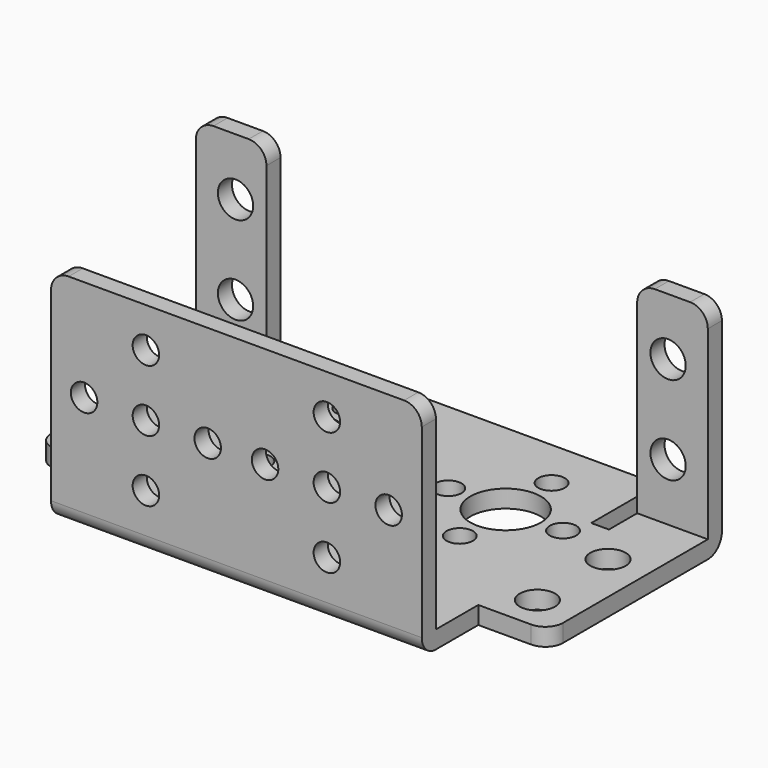
from build123d import *

# Parameters (mm, degrees)
PAD_DEPTH       = 2
SKETCH001_W     = 8
SKETCH001_H     = 2
SKETCH001_W_2   = 42
PAD001_DEPTH    = 23
SKETCH002_R     = 1.5
SKETCH002_R_2   = 4
SKETCH002_R_3   = 2
POCKET_DEPTH    = 5
SKETCH003_R     = 2
SKETCH003_R_2   = 1.5
POCKET001_DEPTH = 32.501
FILLET_R        = 2
FILLET001_R     = 1.99


with BuildPart() as part:
    # Sketch → Pad (new body)
    with BuildSketch(Plane.XY):
        with BuildLine():
            Line((0, -18), (21, -18))
            Line((21, -18), (21, -10))
            Line((21, -10), (27, -10))
            ThreePointArc((27, -10), (28.414214, -9.414214), (29, -8))
            Line((29, -8), (29, 14.5))
            Line((29, 14.5), (21, 14.5))
            Line((21, 14.5), (21, 8.5))
            Line((21, 8.5), (19, 8.5))
            Line((19, 8.5), (19, 16))
            ThreePointArc((19, 16), (18.414214, 17.414214), (17, 18))
            Line((17, 18), (0, 18))
            Line((0, 18), (0, -18))
        make_face()
    pad = extrude(amount=PAD_DEPTH)

    # Mirrored: Pad across Sketch V_Axis
    add(pad.mirror(Plane(origin=(0, 0, 0), x_dir=(0, 0, 1), z_dir=(1, 0, 0))))

    # Sketch001 (on Face5 of Mirrored) → Pad001 (join)
    with BuildSketch(Plane.XY.offset(2)):
        with Locations((25, 13.5)):
            Rectangle(SKETCH001_W, SKETCH001_H)
        with Locations((-25, 13.5)):
            Rectangle(SKETCH001_W, SKETCH001_H)
        with Locations((0, -17)):
            Rectangle(SKETCH001_W_2, SKETCH001_H)
    extrude(amount=PAD001_DEPTH)

    # Sketch002 (on Face10 of Pad001) → Pocket (cut)
    with BuildSketch(Plane.XY.offset(2)):
        with Locations((-11.46, 12.3)):
            Circle(SKETCH002_R)
        with Locations((-11.46, 5.8)):
            Circle(SKETCH002_R_2)
        with Locations((-4.96, 5.8)):
            Circle(SKETCH002_R)
        with Locations((-17.96, 5.8)):
            Circle(SKETCH002_R)
        with Locations((-11.46, -0.7)):
            Circle(SKETCH002_R)
        with Locations((11.46, 12.3)):
            Circle(SKETCH002_R)
        with Locations((11.46, 5.8)):
            Circle(SKETCH002_R_2)
        with Locations((4.96, 5.8)):
            Circle(SKETCH002_R)
        with Locations((17.96, 5.8)):
            Circle(SKETCH002_R)
        with Locations((11.46, -0.7)):
            Circle(SKETCH002_R)
        with Locations((0, 1.171128)):
            Circle(SKETCH002_R)
        with Locations((0, -5.328872)):
            Circle(SKETCH002_R_2)
        with Locations((6.5, -5.328872)):
            Circle(SKETCH002_R)
        with Locations((-6.5, -5.328872)):
            Circle(SKETCH002_R)
        with Locations((0, -11.828872)):
            Circle(SKETCH002_R)
        with Locations((-24.5, 4)):
            Circle(SKETCH002_R_3)
        with Locations((-24.5, -6)):
            Circle(SKETCH002_R_3)
        with Locations((24.5, 4)):
            Circle(SKETCH002_R_3)
        with Locations((24.5, -6)):
            Circle(SKETCH002_R_3)
    extrude(amount=-POCKET_DEPTH, mode=Mode.SUBTRACT)

    # Sketch003 (on Face53 of Pocket) → Pocket001 (cut, through all)
    with BuildSketch(Plane(origin=(0, 14.5, 0), x_dir=(-1, 0, 0), z_dir=(0, 1, 0))):
        with Locations((-24.5, 18.5)):
            Circle(SKETCH003_R)
        with Locations((-24.5, 8.5)):
            Circle(SKETCH003_R)
        with Locations((24.5, 18.5)):
            Circle(SKETCH003_R)
        with Locations((24.5, 8.5)):
            Circle(SKETCH003_R)
        with Locations((-10.25, 20.5)):
            Circle(SKETCH003_R_2)
        with Locations((-10.25, 13.5)):
            Circle(SKETCH003_R_2)
        with Locations((-10.25, 6.5)):
            Circle(SKETCH003_R_2)
        with Locations((-3.25, 13.5)):
            Circle(SKETCH003_R_2)
        with Locations((-17.25, 13.5)):
            Circle(SKETCH003_R_2)
        with Locations((10.25, 20.5)):
            Circle(SKETCH003_R_2)
        with Locations((10.25, 13.5)):
            Circle(SKETCH003_R_2)
        with Locations((10.25, 6.5)):
            Circle(SKETCH003_R_2)
        with Locations((3.25, 13.5)):
            Circle(SKETCH003_R_2)
        with Locations((17.25, 13.5)):
            Circle(SKETCH003_R_2)
    extrude(amount=-POCKET001_DEPTH, mode=Mode.SUBTRACT)

    # Fillet
    fillet_edges = [part.edges().sort_by_distance(p)[0] for p in [
        (29, 13.5, 25),
        (21, 13.5, 25),
        (21, -17, 25),
        (-21, -17, 25),
        (-21, 13.5, 25),
        (-29, 13.5, 25),
    ]]
    fillet(fillet_edges, radius=FILLET_R)

    # Fillet001
    fillet001_edges = [part.edges().sort_by_distance(p)[0] for p in [
        (25, 14.5, 0),
        (-25, 14.5, 0),
        (-10.5, -18, 0),
        (10.5, -18, 0),
    ]]
    fillet(fillet001_edges, radius=FILLET001_R)


solid = part.part
